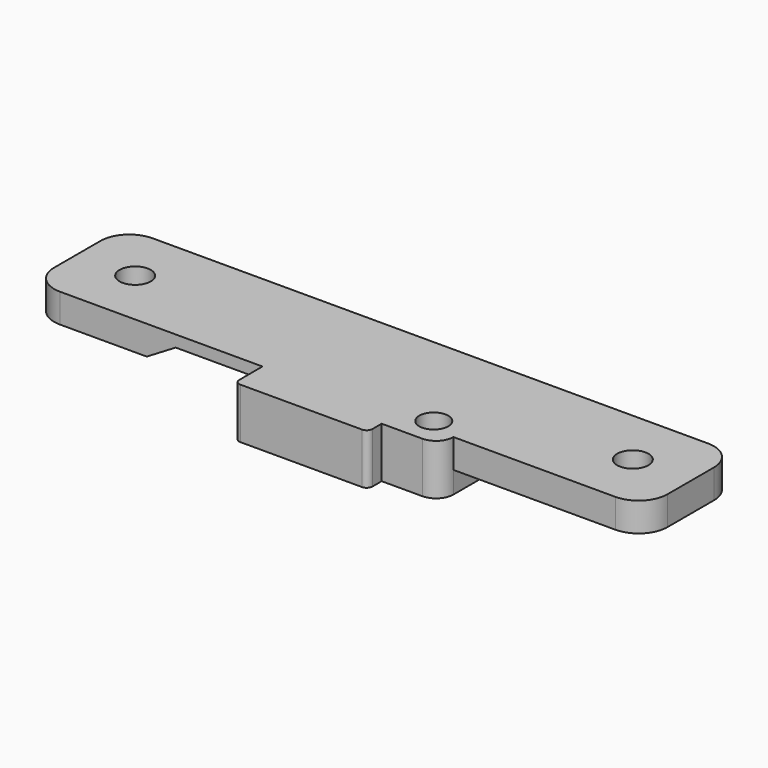
from build123d import *

# Parameters (mm, degrees)
PAD101_DEPTH    = 2
PAD102_DEPTH    = 6.75
SKETCH142_W     = 2
SKETCH142_H     = 23
SKETCH142_W_2   = 21
SKETCH142_H_2   = 2
POCKET042_DEPTH = 1
SKETCH143_W     = 10
SKETCH143_H     = 10
PAD103_DEPTH    = 5
SKETCH144_R     = 2.5
POCKET043_DEPTH = 5
SKETCH145_W     = 20
SKETCH145_H     = 20
PAD104_DEPTH    = 5
SKETCH146_R     = 2.7
POCKET044_DEPTH = 8.751
PAD105_DEPTH    = 23
PAD106_DEPTH    = 3.75
POCKET045_DEPTH = 5.001
PAD107_DEPTH    = 20
SKETCH148_W     = 20
SKETCH148_H     = 5
PAD108_DEPTH    = 20
PAD109_DEPTH    = 14
SKETCH149_R     = 2.7
POCKET046_DEPTH = 5
FILLET021_R     = 5
FILLET022_R     = 2.99
FILLET023_R     = 1
PAD110_DEPTH    = 12


with BuildPart() as body050:
    # Sketch140 → Pad101 (new body)
    with BuildSketch(Plane.XY):
        Polygon((-23, 18), (-23, 0), (0, 0), (0, 13), (23, 13), (23, 26), (-7, 26), (-9, 26), (-9, 21), (-13, 20), (-23, 20), align=None)
    extrude(amount=PAD101_DEPTH)

    # Sketch141 (on Face13 of Pad101) → Pad102 (join)
    with BuildSketch(Plane.XY.offset(2)):
        Polygon((-23, 0), (0, 0), (0, 13), (23, 13), (23, 26), (-9, 26), (-9, 21), (-13, 20), (-23, 20), (-23, 18), (-13, 18), (-7, 19), (-7, 25), (21, 25), (21, 15), (-2, 15), (-2, 2), (-23, 2), align=None)
    extrude(amount=PAD102_DEPTH)

    # Sketch142 (on Face7 of Pad102) → Pocket042 (cut)
    with BuildSketch(Plane.XY.offset(2)):
        with Locations((-6, 13.5)):
            Rectangle(SKETCH142_W, SKETCH142_H)
        with Locations((6.5, 17)):
            Rectangle(SKETCH142_W_2, SKETCH142_H_2)
    extrude(amount=-POCKET042_DEPTH, mode=Mode.SUBTRACT)

    # Sketch143 (on Face18 of Pocket042) → Pad103 (join)
    with BuildSketch(Plane.XY.offset(8.75)):
        with Locations((5, 8)):
            Rectangle(SKETCH143_W, SKETCH143_H)
    extrude(amount=-PAD103_DEPTH)

    # Sketch144 (on Face29 of Pad103) → Pocket043 (cut)
    with BuildSketch(Plane.XY.offset(8.75)):
        with Locations((5, 8)):
            Circle(SKETCH144_R)
    extrude(amount=-POCKET043_DEPTH, mode=Mode.SUBTRACT)

    # Sketch145 (on Face4 of Pocket043) → Pad104 (join)
    with BuildSketch(Plane(origin=(0, 0, 0), x_dir=(1, 0, 0), z_dir=(0, 0, -1))):
        with Locations((33, -16)):
            Rectangle(SKETCH145_W, SKETCH145_H)
    extrude(amount=-PAD104_DEPTH)

    # Sketch146 (on Face13 of Pad104) → Pocket044 (cut, through all)
    with BuildSketch(Plane(origin=(0, 0, 0), x_dir=(1, 0, 0), z_dir=(0, 0, -1))):
        with Locations((33, -16)):
            Circle(SKETCH146_R)
    extrude(amount=-POCKET044_DEPTH, mode=Mode.SUBTRACT)

    # Pocket044 Face25 → Pad105 (add)
    with BuildSketch(Plane(origin=(23, 9.5, 2.5), x_dir=(0, 1, 0), z_dir=(-1, 0, 0))):
        Polygon((3.5, 2.5), (-3.5, 2.5), (-3.5, -2.5), (3.5, -2.5), (3.5, 0.5), align=None)
    extrude(amount=PAD105_DEPTH)

    # Pad105 Face46 → Pad106 (add)
    with BuildSketch(Plane(origin=(5, 4.454221, 3.75), x_dir=(0, -1, 0), z_dir=(0, 0, -1))):
        with BuildLine():
            Line((-1.545779, 5), (-1.545779, 1.5))
            ThreePointArc((-1.545779, 1.5), (-1.045779, 0), (-1.545779, -1.5))
            Line((-1.545779, -1.5), (-1.545779, -5))
            Line((-1.545779, -5), (1.454221, -5))
            Line((1.454221, -5), (1.454221, 5))
            Line((1.454221, 5), (-1.545779, 5))
        make_face()
    extrude(amount=PAD106_DEPTH)

    # Pad106 Face53 → Pocket045 (cut, through all)
    with BuildSketch(Plane(origin=(5, 8.120883, 5), x_dir=(0, 1, 0), z_dir=(0, 0, 1))):
        with BuildLine():
            ThreePointArc((-2.120883, -1.5), (-1.238917, -2.236068), (-0.120883, -2.5))
            ThreePointArc((-0.120883, -2.5), (2.115185, 1.118034), (-2.120883, 1.5))
            Line((-2.120883, 1.5), (-2.120883, -1.5))
        make_face()
    extrude(amount=-POCKET045_DEPTH, mode=Mode.SUBTRACT)

    # Sketch147 (on Face1 of Pocket045) → Pad107 (join)
    with BuildSketch(Plane(origin=(-23, 0, 0), x_dir=(0, -1, 0), z_dir=(-1, 0, 0))):
        Polygon((-26, 0), (-26, 5), (-18, 5), (-18, 2), (-6, 2), (-6, 0), align=None)
    extrude(amount=PAD107_DEPTH)

    # Sketch148 (on Face24 of Pad107) → Pad108 (join)
    with BuildSketch(Plane(origin=(-43, 0, 0), x_dir=(0, -1, 0), z_dir=(-1, 0, 0))):
        with Locations((-16, 2.5)):
            Rectangle(SKETCH148_W, SKETCH148_H)
    extrude(amount=PAD108_DEPTH)

    # Pad108 Face26 → Pad109 (add)
    with BuildSketch(Plane(origin=(-23, 23, 2.5), x_dir=(0, -1, 0), z_dir=(1, 0, 0))):
        Polygon((3, -2.5), (3, 0.5), (3, 2.5), (-3, 2.5), (-3, -2.5), align=None)
    extrude(amount=PAD109_DEPTH)

    # Sketch149 (on Face57 of Pad109) → Pocket046 (cut)
    with BuildSketch(Plane.XY.offset(5)):
        with Locations((-53, 16)):
            Circle(SKETCH149_R)
    extrude(amount=-POCKET046_DEPTH, mode=Mode.SUBTRACT)

    # Fillet021
    fillet021_edges = [body050.edges().sort_by_distance(p)[0] for p in [
        (-63, 26, 2.5),
        (-63, 6, 2.5),
        (43, 26, 2.5),
        (43, 6, 2.5),
    ]]
    fillet(fillet021_edges, radius=FILLET021_R)

    # Fillet022
    fillet022_edges = [body050.edges().sort_by_distance(p)[0] for p in [
        (10, 3, 1.875),
        (10, 3, 6.25),
    ]]
    fillet(fillet022_edges, radius=FILLET022_R)

    # Fillet023
    fillet023_edges = [body050.edges().sort_by_distance(p)[0] for p in [
        (-23, 0, 1),
        (-23, 0, 5.375),
        (0, 0, 5.375),
        (0, 0, 1),
        (23, 13, 6.875),
        (23, 26, 6.875),
        (-9, 26, 6.875),
        (-23, 20, 6.875),
    ]]
    fillet(fillet023_edges, radius=FILLET023_R)

    # Sketch150 (on Face26 of Fillet023) → Pad110 (join)
    with BuildSketch(Plane.XZ.offset(-6)):
        Polygon((-43, 5), (-43, 2), (-38, 2), align=None)
    extrude(amount=-PAD110_DEPTH)


with BuildPart() as part_mirroring003:
    # Part__Mirroring003: instance of Body050
    add(body050.part.mirror(Plane(origin=(0, 13, 0), x_dir=(0, 1, 0), z_dir=(0, 0, 1))))


with BuildPart() as part_mirroring003_1:
    # Part__Mirroring003 placement: moved
    add(part_mirroring003.part.moved(Location((0, 0, 17.5))))


solid = part_mirroring003_1.part
